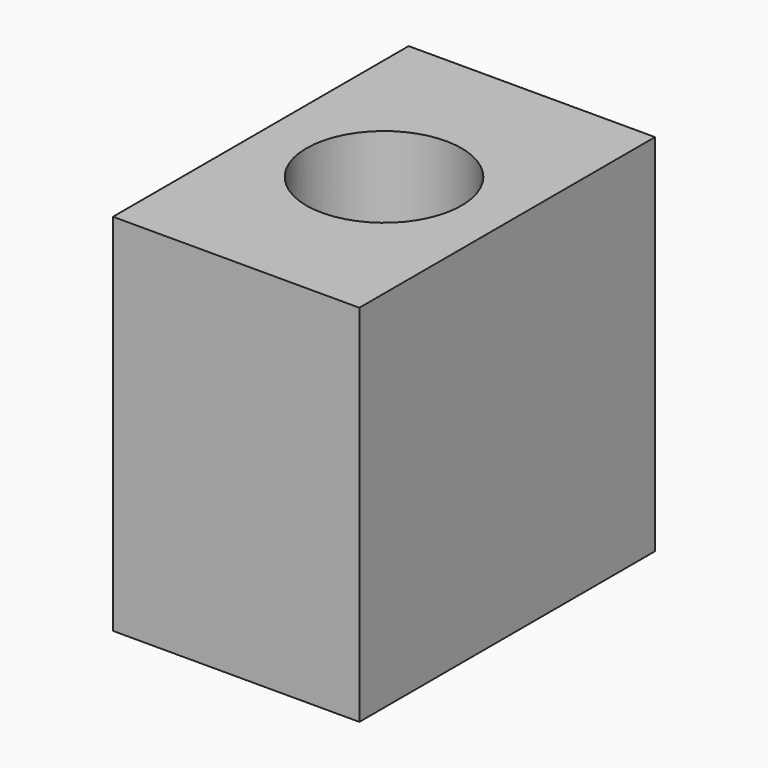
from build123d import *

# Parameters (mm, degrees)
F2_W     = 20
F2_H     = 30
F2_R     = 8.3
F3_DEPTH = 29.6


with BuildPart() as f1:
    # F0 (on Front) → F1 (revolve)
    with BuildSketch(Plane.XZ):
        Polygon((-3.6, 3), (-3.6, 3.4), (-5.9, 5.6), (-5.9, 9.6), (-6.3, 10.6), (-6.3, 29.6), (-8.3, 29.6), (-8.3, 0), (-2.4, 0), (-2.4, 3), align=None)
    revolve(axis=Axis((0, 0, 14.8), (0, 0, -1)))

    # F2 (on face) → F3 (join)
    with BuildSketch(Plane(origin=(0, 0, 0), x_dir=(1, 0, 0), z_dir=(0, 0, -1))):
        Rectangle(F2_W, F2_H)
        Circle(F2_R, mode=Mode.SUBTRACT)
        Rectangle(F2_W, F2_H)
        Circle(F2_R, mode=Mode.SUBTRACT)
        Rectangle(F2_W, F2_H)
        Circle(F2_R, mode=Mode.SUBTRACT)
    extrude(amount=-F3_DEPTH)


solid = f1.part
